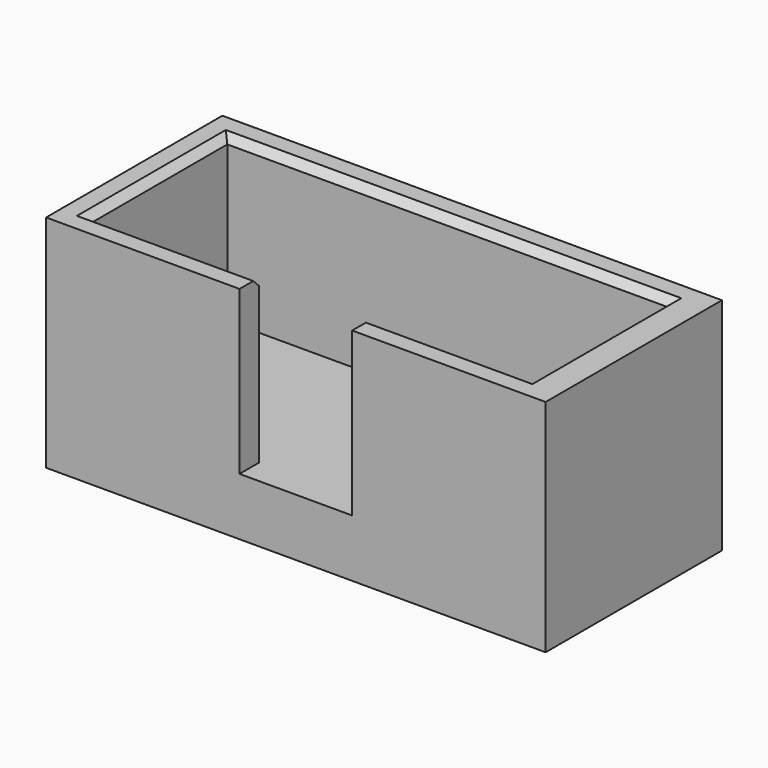
from build123d import *

# Parameters (mm, degrees)
BOX004_W        = 4.6
BOX004_H        = 2
BOX004_DEPTH    = 6.65
BOX003_W        = 18
BOX003_H        = 7
BOX003_DEPTH    = 6.65
BOX002_W        = 20.4
BOX002_H        = 9
BOX002_DEPTH    = 9
CHAMFER001_SIZE = 0.3


with BuildPart() as cube004:
    # Box004 → Box004 (new body)
    with BuildSketch(Plane(origin=(-2.3, -5, 2.55), x_dir=(1, 0, 0), z_dir=(0, 0, 1))):
        with Locations((2.3, 1)):
            Rectangle(BOX004_W, BOX004_H)
    extrude(amount=BOX004_DEPTH)


with BuildPart() as cube003:
    # Box003 → Box003 (new body)
    with BuildSketch(Plane(origin=(-9.2, -3.5, 2.55), x_dir=(1, 0, 0), z_dir=(0, 0, 1))):
        with Locations((9, 3.5)):
            Rectangle(BOX003_W, BOX003_H)
    extrude(amount=BOX003_DEPTH)


with BuildPart() as chamfer001:
    # Box002 → Box002 (new body)
    with BuildSketch(Plane(origin=(-10.2, -4.5, 0.2), x_dir=(1, 0, 0), z_dir=(0, 0, 1))):
        with Locations((10.2, 4.5)):
            Rectangle(BOX002_W, BOX002_H)
    extrude(amount=BOX002_DEPTH)

    # Cut: cut Cube003
    add(cube003.part, mode=Mode.SUBTRACT)

    # Cut001: cut Cube004
    add(cube004.part, mode=Mode.SUBTRACT)

    # Chamfer001
    chamfer001_edges = [chamfer001.edges().sort_by_distance(p)[0] for p in [
        (5.55, -3.5, 9.2),
        (8.8, 0, 9.2),
        (-0.2, 3.5, 9.2),
        (-9.2, 0, 9.2),
        (-5.75, -3.5, 9.2),
    ]]
    chamfer(chamfer001_edges, length=CHAMFER001_SIZE)


solid = chamfer001.part
